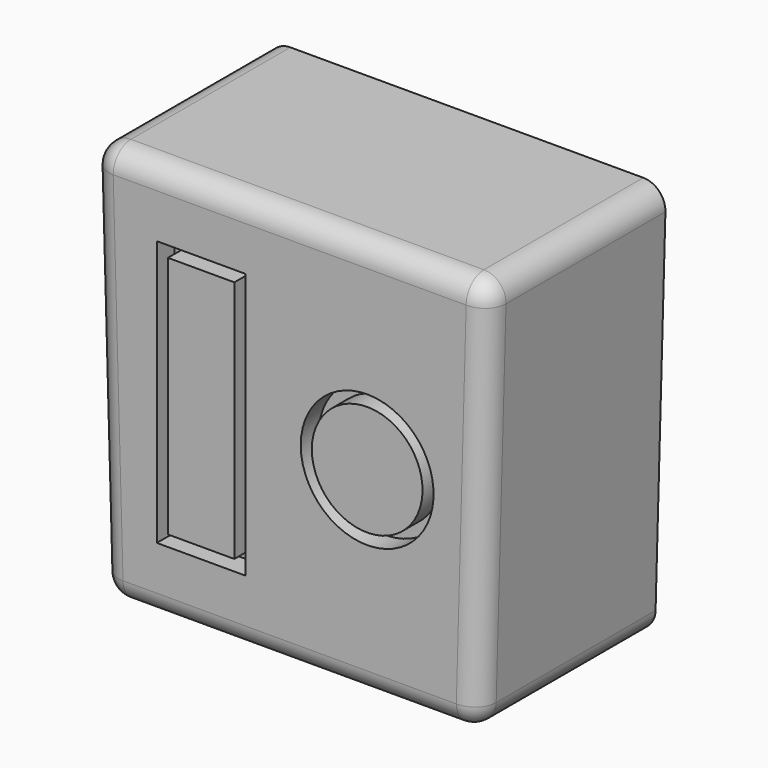
from build123d import *

# Parameters (mm, degrees)
F1_DEPTH = 20
F2_R     = 2
F4_DEPTH = 2


with BuildPart() as f1:
    # F0 (on Front) → F1 (new body)
    with BuildSketch(Plane.XZ):
        Polygon((18, 18), (-18, 18), (-17, -18), (17, -18), align=None)
    extrude(amount=F1_DEPTH)

    # F2
    f2_edges = [f1.edges().sort_by_distance(p)[0] for p in [
        (-17, -10, -18),
        (-18, -10, 18),
        (18, -10, 18),
        (17, -10, -18),
        (17.5, -20, 0),
        (0, -20, -18),
        (-17.5, -20, 0),
        (0, -20, 18),
    ]]
    fillet(f2_edges, radius=F2_R)

    # F3 (on face) → F4 (cut)
    with BuildSketch(Plane.XZ.offset(20)):
        Polygon((-4, -12), (-4, 0), (-4, 12), (-12, 12), (-12, -12), align=None)
        Polygon((-5, 11), (-5, 0), (-5, -11), (-11, -11), (-11, 11), align=None, mode=Mode.SUBTRACT)
        with BuildLine():
            ThreePointArc((13, 0), (7, 6), (1, 0))
            ThreePointArc((1, 0), (7, -6), (13, 0))
        make_face()
        with BuildLine():
            ThreePointArc((12, 0), (7, -5), (2, 0))
            ThreePointArc((2, 0), (7, 5), (12, 0))
        make_face(mode=Mode.SUBTRACT)
    extrude(amount=-F4_DEPTH, mode=Mode.SUBTRACT)


solid = f1.part
